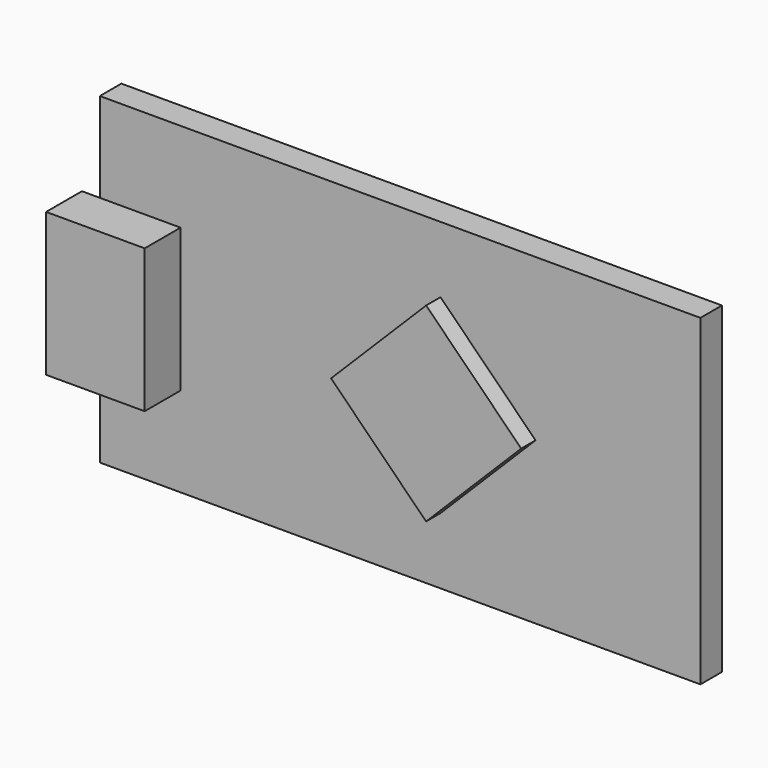
from build123d import *

# Parameters (mm, degrees)
SKETCH005_W             = 33.5
SKETCH005_H             = 18
PAD006_DEPTH            = 1.5
BOX013_W                = 5.5
BOX013_H                = 8
BOX013_DEPTH            = 2.5
BOX014_W                = 7.5
BOX014_H                = 7.5
BOX014_DEPTH            = 1
BODY008_PLACEMENT_ANGLE = 180


with BuildPart() as part:
    # Sketch005 → Pad006 (new body)
    with BuildSketch(Plane.XZ):
        with Locations((16.75, 9)):
            Rectangle(SKETCH005_W, SKETCH005_H)
    extrude(amount=PAD006_DEPTH)

    # Box013 → Box013 (join)
    with BuildSketch(Plane(origin=(-1, 2.5, 5), x_dir=(1, 0, 0), z_dir=(0, -1, 0))):
        with Locations((2.75, 4)):
            Rectangle(BOX013_W, BOX013_H)
    extrude(amount=BOX013_DEPTH)

    # Box014 → Box014 (join)
    with BuildSketch(Plane(origin=(19, 1, 3.7), x_dir=(0.707107, 0, 0.707107), z_dir=(0, -1, 0))):
        with Locations((3.75, 3.75)):
            Rectangle(BOX014_W, BOX014_H)
    extrude(amount=BOX014_DEPTH)


with BuildPart() as part_1:
    # Body008 placement: moved
    add(part.part.moved(Location((0, -6, 69))).rotate(Axis((0, -6, 69), (1, 0, 0)), BODY008_PLACEMENT_ANGLE))


solid = part_1.part
